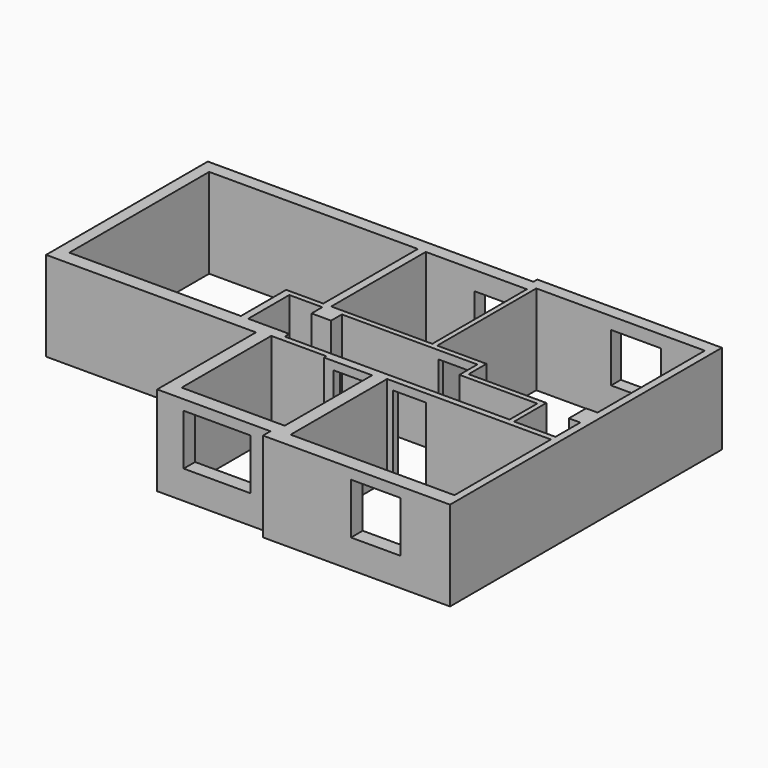
from build123d import *

# Parameters (mm, degrees)
F0_W      = 4020
F0_H      = 2960
F0_W_2    = 2480
F0_H_2    = 2900
F1_DEPTH  = 2200
F2_W      = 800
F2_H      = 2000
F3_DEPTH  = 130
F4_W      = 800
F4_H      = 2000
F5_DEPTH  = 150
F6_W      = 1640
F6_H      = 1250
F7_DEPTH  = 350
F8_W      = 1220
F8_H      = 1250
F9_DEPTH  = 360
F10_W     = 990
F10_H     = 1040
F11_DEPTH = 320
F12_W     = 1230
F12_H     = 1200
F13_DEPTH = 300
F14_W     = 750
F14_H     = 2000
F15_DEPTH = 210


with BuildPart() as f1:
    # F0 (on Top) → F1 (new body)
    with BuildSketch(Plane.XY):
        Polygon((-3236.807995, -215.958515), (1913.192005, -215.958515), (1913.192005, -3245.958515), (4693.192005, -3245.958515), (4693.192005, -3475.958515), (9283.192005, -3475.958515), (9283.192005, 4864.041485), (4753.192005, 4864.041485), (4753.192005, 4744.041485), (-3236.807995, 4744.041485), align=None)
        Polygon((4763.192005, -215.958515), (4763.192005, -2895.958515), (2233.192005, -2895.958515), (2233.192005, -145.958515), (3583.192005, -145.958515), (3583.192005, -215.958515), align=None, mode=Mode.SUBTRACT)
        with Locations((7093.192005, -1635.958515)):
            Rectangle(F0_W, F0_H, mode=Mode.SUBTRACT)
        Polygon((-2946.807995, 4424.041485), (2173.192005, 4424.041485), (2173.192005, 1524.041485), (1263.192005, 1524.041485), (1263.192005, 134.041485), (-2946.807995, 134.041485), align=None, mode=Mode.SUBTRACT)
        Polygon((2733.192005, 1394.041485), (6058.192005, 1394.041485), (6058.192005, 844.041485), (7968.192005, 844.041485), (7968.192005, -5.958515), (2453.192005, -5.958515), (2453.192005, 134.041485), (1443.192005, 134.041485), (1443.192005, 1394.041485), (2253.192005, 1394.041485), (2253.192005, 1064.041485), (2733.192005, 1064.041485), align=None, mode=Mode.SUBTRACT)
        Polygon((4968.192005, 1524.041485), (4968.192005, 4564.041485), (9103.192005, 4564.041485), (9103.192005, 1274.041485), (8823.192005, 1274.041485), (8823.192005, 744.041485), (9103.192005, 744.041485), (9103.192005, -15.958515), (8088.192005, -15.958515), (8088.192005, 974.041485), (6178.192005, 974.041485), (6178.192005, 1524.041485), align=None, mode=Mode.SUBTRACT)
        with Locations((3608.192005, 2974.041485)):
            Rectangle(F0_W_2, F0_H_2, mode=Mode.SUBTRACT)
    extrude(amount=F1_DEPTH)

    # F2 (on face) → F3 (cut, through all)
    with BuildSketch(Plane.XZ.offset(-1394.041485)):
        with Locations((5508.192005, 1000)):
            Rectangle(F2_W, F2_H)
    extrude(amount=-F3_DEPTH, mode=Mode.SUBTRACT)

    # F4 (on face) → F5 (cut, through all)
    with BuildSketch(Plane.XZ.offset(155.958515)):
        with Locations((5633.192005, 1000)):
            Rectangle(F4_W, F4_H)
    extrude(amount=-F5_DEPTH, mode=Mode.SUBTRACT)

    # F6 (on face) → F7 (cut, through all)
    with BuildSketch(Plane.XZ.offset(3245.958515)):
        with Locations((3383.192005, 1325)):
            Rectangle(F6_W, F6_H)
    extrude(amount=-F7_DEPTH, mode=Mode.SUBTRACT)

    # F8 (on face) → F9 (cut, through all)
    with BuildSketch(Plane.XZ.offset(3475.958515)):
        with Locations((7463.192005, 1325)):
            Rectangle(F8_W, F8_H)
    extrude(amount=-F9_DEPTH, mode=Mode.SUBTRACT)

    # F10 (on face) → F11 (cut, through all)
    with BuildSketch(Plane(origin=(0, 4744.041485, 0), x_dir=(-1, 0, 0), z_dir=(0, 1, 0))):
        with Locations((-4058.192005, 1220)):
            Rectangle(F10_W, F10_H)
    extrude(amount=-F11_DEPTH, mode=Mode.SUBTRACT)

    # F12 (on face) → F13 (cut, through all)
    with BuildSketch(Plane(origin=(0, 4864.041485, 0), x_dir=(-1, 0, 0), z_dir=(0, 1, 0))):
        with Locations((-7418.192005, 1300)):
            Rectangle(F12_W, F12_H)
    extrude(amount=-F13_DEPTH, mode=Mode.SUBTRACT)

    # F14 (on face) → F15 (cut, through all)
    with BuildSketch(Plane.XZ.offset(215.958515)):
        with Locations((4188.192005, 1000)):
            Rectangle(F14_W, F14_H)
    extrude(amount=-F15_DEPTH, mode=Mode.SUBTRACT)


solid = f1.part
